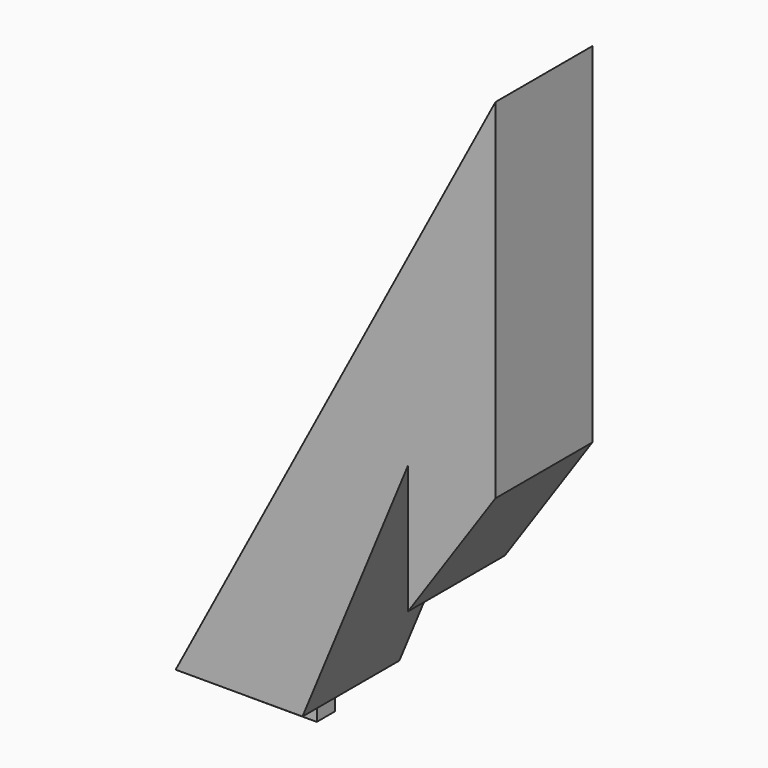
from build123d import *

# Parameters (mm, degrees)
F1_DEPTH = 10
F3_W     = 5.874925
F3_H     = 1.894058
F4_DEPTH = 3


with BuildPart() as f1:
    # F0 (on Front) → F1 (new body)
    with BuildSketch(Plane.XZ):
        Polygon((0, 49.839775), (-26.399941, 0), (-15.930569, 0), (-7.220358, 21.070649), (-7.220358, 10.470649), (0, 21.039775), align=None)
    extrude(amount=F1_DEPTH)

    # F3 (on face) → F4 (join)
    with BuildSketch(Plane(origin=(0, 0, 0), x_dir=(1, 0, 0), z_dir=(0, 0, -1))):
        with Locations((-21.278475, 4.563233)):
            Rectangle(F3_W, F3_H)
    extrude(amount=F4_DEPTH)


solid = f1.part
